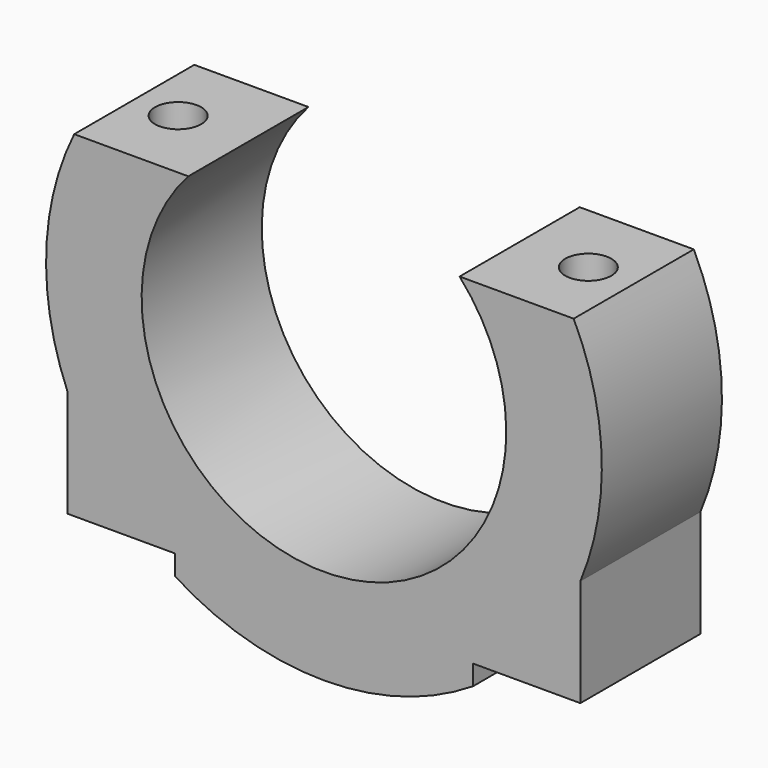
from build123d import *

# Parameters (mm, degrees)
F0_R          = 25.91
F1_DEPTH      = 7
F1_DEPTH_BACK = 7
F2_R          = 17
F3_DEPTH      = 7
F3_DEPTH_BACK = 7
F6_START      = -6
F5_W          = 8
F5_H          = 14
F6_DEPTH      = 14
F7_R          = 2.15
F8_DEPTH      = 30
F8_DEPTH_BACK = 30
F9_W          = 10
F9_H          = 14
F10_DEPTH     = 10
F14_W         = 122.705668211
F14_H         = 84.9680826068
F15_DEPTH     = 18


with BuildPart() as f1:
    # F0 (on Front) → F1 (new body, two sides)
    with BuildSketch(Plane.XZ) as f1_sk:
        Circle(F0_R)
    extrude(amount=F1_DEPTH)
    extrude(f1_sk.sketch, amount=-F1_DEPTH_BACK)

    # F2 (on Front) → F3 (cut, two sides)
    with BuildSketch(Plane.XZ) as f3_sk:
        Circle(F2_R)
    extrude(amount=-F3_DEPTH, mode=Mode.SUBTRACT)
    extrude(f3_sk.sketch, amount=F3_DEPTH_BACK, mode=Mode.SUBTRACT)

    # F5 (on face) → F6 (join)
    with BuildSketch(Plane.XY.offset(F6_START)):
        with Locations((-19.91, 0)):
            Rectangle(F5_W, F5_H)
        with Locations((19.91, 0)):
            Rectangle(F5_W, F5_H)
    extrude(amount=-F6_DEPTH)

    # F7 (on face) → F8 (cut, two sides)
    with BuildSketch(Plane.XY) as f8_sk:
        with Locations((-19.1982129737, 0)):
            Circle(F7_R)
        with Locations((19.0490627756, 0)):
            Circle(F7_R)
    extrude(amount=F8_DEPTH, mode=Mode.SUBTRACT)
    extrude(f8_sk.sketch, amount=-F8_DEPTH_BACK, mode=Mode.SUBTRACT)

    # F9 (on face) → F10 (cut)
    with BuildSketch(Plane(origin=(0, 0, -20), x_dir=(1, 0, 0), z_dir=(0, 0, -1))):
        with Locations((-18.91, 0)):
            Rectangle(F9_W, F9_H)
        with Locations((18.91, 0)):
            Rectangle(F9_W, F9_H)
    extrude(amount=F10_DEPTH, mode=Mode.SUBTRACT)

    # F14 (on 3pt) → F15 (cut)
    with BuildSketch(Plane(origin=(0, 0, 11.36), x_dir=(1, 0, 0), z_dir=(0, 0, -1))):
        with Locations((8.9623853564, -3.6773085594)):
            Rectangle(F14_W, F14_H)
    extrude(amount=-F15_DEPTH, mode=Mode.SUBTRACT)


solid = f1.part
